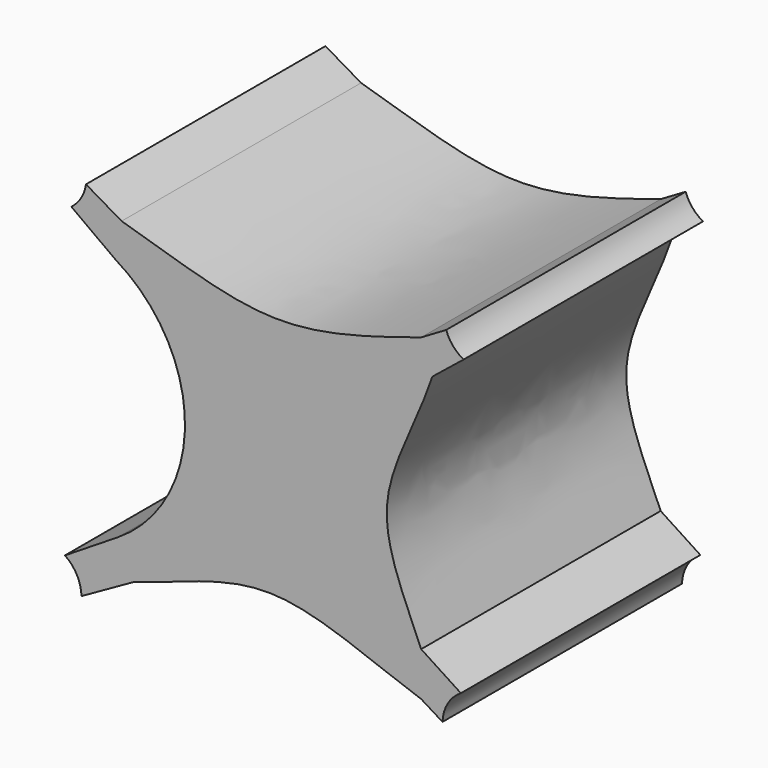
from build123d import *

# Parameters (mm, degrees)
F1_DEPTH = 50
F3_DEPTH = 50.0010001
F4_R     = 16.0196182497
F5_DEPTH = 37.7
F6_R     = 14.0015155941
F7_DEPTH = 63


with BuildPart() as f1:
    # F0 (on Front) → F1 (new body)
    with BuildSketch(Plane.XZ):
        with BuildLine():
            add(Edge.make_bspline(
                [(-24.9009096901, 27.8132260291), (-15.2719138126, 25.0041245055), (0.0685505815, 19.3712880215), (15.1674460028, 23.7765369464), (25.1386704972, 26.9907502037)],
                knots=[0, 0, 0, 0, 0.4997319812, 1, 1, 1, 1], degree=3))
            Line((-24.9009096901, 27.8132260291), (-30.8519195794, 31.2922782778))
            ThreePointArc((-30.8519195794, 31.2922782778), (-31.6756477165, 29.0091165086), (-33.2958245412, 27.2018028212))
            Line((-33.2958245412, 27.2018028212), (-25.9555131602, 21.8371527458))
            add(Edge.make_bspline(
                [(-25.9555131602, 21.8371527458), (-22.7845221536, 13.488346606), (-17.3288820912, 0.0516611316), (-22.1761950436, -11.8040839548), (-25.4937373126, -18.8575223359)],
                knots=[0, 0, 0, 0, 0.5176887267, 1, 1, 1, 1], degree=3))
            Line((-25.4937373126, -18.8575223359), (-34.3650811811, -24.4237805158))
            ThreePointArc((-34.3650811811, -24.4237805158), (-32.3719868097, -26.6370212042), (-31.6072761212, -29.5155758903))
            Line((-31.6072761212, -29.5155758903), (-23.0260640383, -24.6824789792))
            add(Edge.make_bspline(
                [(-23.0260640383, -24.6824789792), (-14.7885032622, -22.1197617809), (-0.0436946051, -14.9712963525), (16.3980588143, -23.2713009768), (25.1386702767, -26.1990372013)],
                knots=[0, 0, 0, 0, 0.4877897865, 1, 1, 1, 1], degree=3))
            Line((25.1386702767, -26.1990372013), (28.7010856366, -28.4007272488))
            ThreePointArc((28.7010856366, -28.4007272488), (29.5711101683, -25.4013798938), (31.7657258985, -23.1795137775))
            Line((31.7657258985, -23.1795137775), (25.1386702897, -18.8575223359))
            add(Edge.make_bspline(
                [(27.0089022596, 21.8371527458), (24.067082439, 13.1959431089), (15.6637973801, 0.5258679424), (22.3337226969, -12.2190983175), (25.1386702897, -18.8575223359)],
                knots=[0, 0, 0, 0, 0.5199533553, 1, 1, 1, 1], degree=3))
            Line((27.0089022596, 21.8371527458), (32.2177472852, 26.0263319884))
            ThreePointArc((32.2177472852, 26.0263319884), (30.448037412, 27.4639143113), (29.311723773, 29.440605305))
            Line((29.311723773, 29.440605305), (25.1386704972, 26.9907502037))
        make_face()
    extrude(amount=F1_DEPTH)

    # F2 (on face) → F3 (cut, through all)
    with BuildSketch(Plane.XZ.offset(50)):
        with BuildLine():
            add(Edge.make_bspline(
                [(-25.9555131602, 21.8371527458), (-22.7845221536, 13.488346606), (-17.3288820912, 0.0516611316), (-22.1761950436, -11.8040839548), (-25.4937373126, -18.8575223359)],
                knots=[0, 0, 0, 0, 0.5176887267, 1, 1, 1, 1], degree=3))
            ThreePointArc((-25.4937373126, -18.8575223359), (-14.3192522827, 1.6192357189), (-25.9555131602, 21.8371527458))
        make_face()
    extrude(amount=-F3_DEPTH, mode=Mode.SUBTRACT)

    # F4 (on Front) → F5 (cut)
    with BuildSketch(Plane.XZ):
        with Locations((22.9763758397, 0.8501823597)):
            Circle(F4_R)
    extrude(amount=-F5_DEPTH, mode=Mode.SUBTRACT)

    # F6 (on Front) → F7 (cut)
    with BuildSketch(Plane.XZ):
        with Locations((-1.843900617, 21.1695458569)):
            Circle(F6_R)
    extrude(amount=-F7_DEPTH, mode=Mode.SUBTRACT)


solid = f1.part
